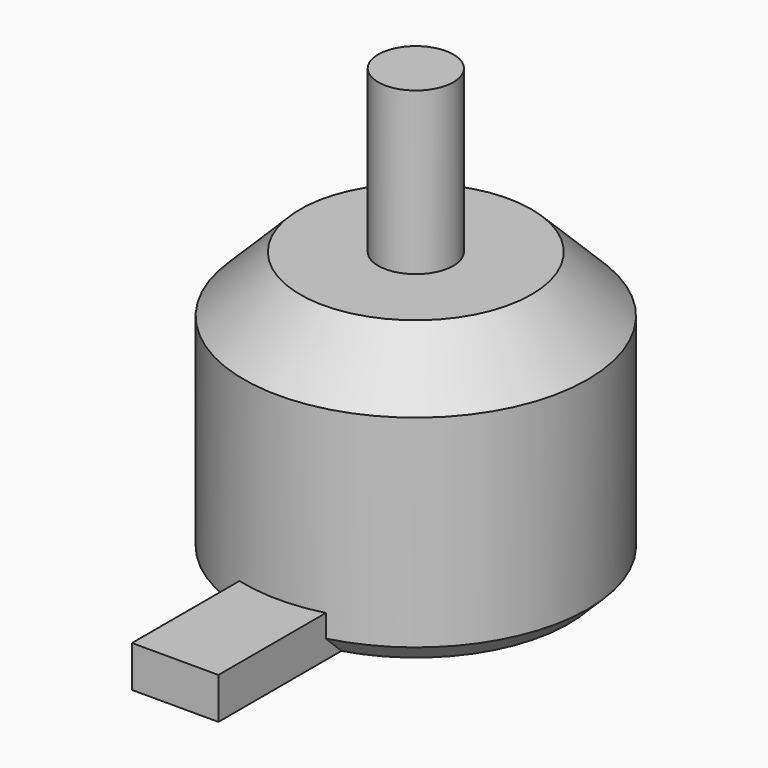
from build123d import *

# Parameters (mm, degrees)
F0_R     = 11.6205
F1_DEPTH = 18.7452
F2_R     = 2.54
F3_DEPTH = 10.922
F4_SIZE  = 3.81
F5_SIZE  = 1.27
F6_W     = 5.842
F6_H     = 20.32
F7_DEPTH = 2.794


with BuildPart() as f1:
    # F0 (on Top) → F1 (new body)
    with BuildSketch(Plane.XY):
        Circle(F0_R)
    extrude(amount=F1_DEPTH)

    # F2 (on face) → F3 (join)
    with BuildSketch(Plane.XY.offset(18.7452)):
        Circle(F2_R)
    extrude(amount=F3_DEPTH)

    # F4
    f4_edges = [f1.edges().sort_by_distance(p)[0] for p in [
        (-11.6205, 0, 18.7452),
    ]]
    chamfer(f4_edges, length=F4_SIZE)

    # F5
    f5_edges = [f1.edges().sort_by_distance(p)[0] for p in [
        (-11.6205, 0, 0),
    ]]
    chamfer(f5_edges, length=F5_SIZE)

    # F6 (on face) → F7 (join)
    with BuildSketch(Plane(origin=(0, 0, 0), x_dir=(1, 0, 0), z_dir=(0, 0, -1))):
        with Locations((0, 10.16)):
            Rectangle(F6_W, F6_H)
    extrude(amount=-F7_DEPTH)


solid = f1.part
